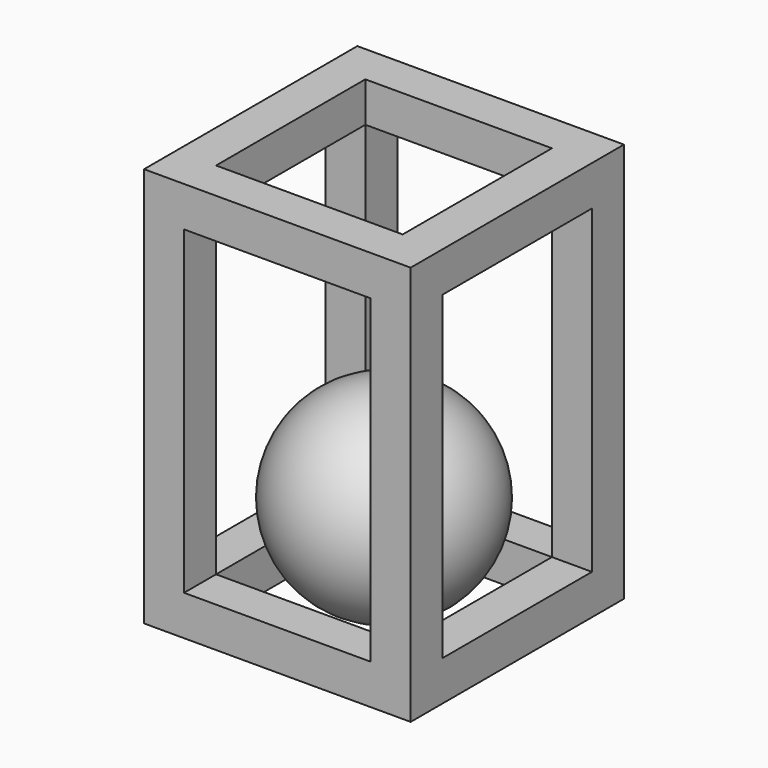
from build123d import *

# Parameters (mm, degrees)
F0_W     = 14
F0_H     = 3
F0_W_2   = 3
F0_H_2   = 14
F1_DEPTH = 3
F2_DEPTH = 30
F3_START = 27
F3_DEPTH = 3


with BuildPart() as f1:
    # F0 (on Top) → F1 (new body)
    with BuildSketch(Plane.XY):
        with Locations((0, -8.5)):
            Rectangle(F0_W, F0_H)
        with Locations((-8.5, 0)):
            Rectangle(F0_W_2, F0_H_2)
        with Locations((0, 8.5)):
            Rectangle(F0_W, F0_H)
        with Locations((8.5, 0)):
            Rectangle(F0_W_2, F0_H_2)
        with Locations((-8.5, -8.5)):
            Rectangle(F0_W_2, F0_H)
        with Locations((8.5, -8.5)):
            Rectangle(F0_W_2, F0_H)
        with Locations((8.5, 8.5)):
            Rectangle(F0_W_2, F0_H)
        with Locations((-8.5, 8.5)):
            Rectangle(F0_W_2, F0_H)
    extrude(amount=F1_DEPTH)

    # F0 (on Top) → F2 (join)
    with BuildSketch(Plane.XY):
        with Locations((-8.5, -8.5)):
            Rectangle(F0_W_2, F0_H)
        with Locations((-8.5, 8.5)):
            Rectangle(F0_W_2, F0_H)
        with Locations((8.5, 8.5)):
            Rectangle(F0_W_2, F0_H)
        with Locations((8.5, -8.5)):
            Rectangle(F0_W_2, F0_H)
    extrude(amount=F2_DEPTH)

    # F0 (on Top) → F3 (join)
    with BuildSketch(Plane.XY.offset(F3_START)):
        with Locations((8.5, 8.5)):
            Rectangle(F0_W_2, F0_H)
        with Locations((0, 8.5)):
            Rectangle(F0_W, F0_H)
        with Locations((8.5, 0)):
            Rectangle(F0_W_2, F0_H_2)
        with Locations((-8.5, 8.5)):
            Rectangle(F0_W_2, F0_H)
        with Locations((8.5, -8.5)):
            Rectangle(F0_W_2, F0_H)
        with Locations((-8.5, 0)):
            Rectangle(F0_W_2, F0_H_2)
        with Locations((0, -8.5)):
            Rectangle(F0_W, F0_H)
        with Locations((-8.5, -8.5)):
            Rectangle(F0_W_2, F0_H)
    extrude(amount=F3_DEPTH)


with BuildPart() as f5:
    # F4 (on Front) → F5 (revolve)
    with BuildSketch(Plane.XZ):
        with BuildLine():
            Line((0, 0), (0, 15))
            ThreePointArc((0, 15), (-7.5, 7.5), (0, 0))
        make_face()
    revolve(axis=Axis((0, 0, 7.5), (0, 0, -1)))


solid = Compound([f1.part, f5.part])
